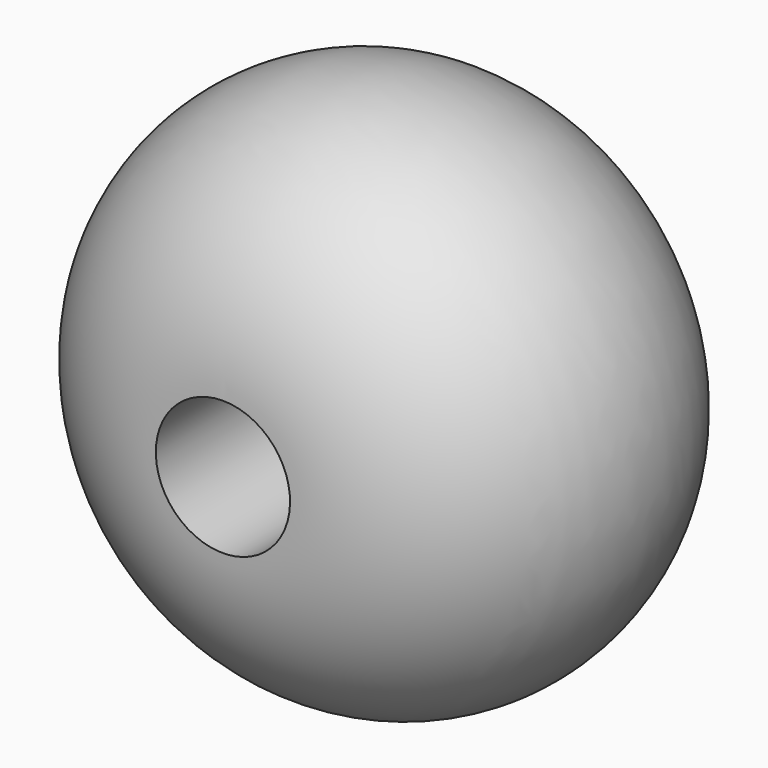
from build123d import *


with BuildPart() as f1:
    # F0 (on Right) → F1 (revolve)
    with BuildSketch(Plane.YZ):
        with BuildLine():
            ThreePointArc((15, 5), (0, 20), (-15, 5))
            Line((-15, 5), (15, 5))
        make_face()
    revolve(axis=Axis((0, 5.110482, 0), (0, 1, 0)))


solid = f1.part
